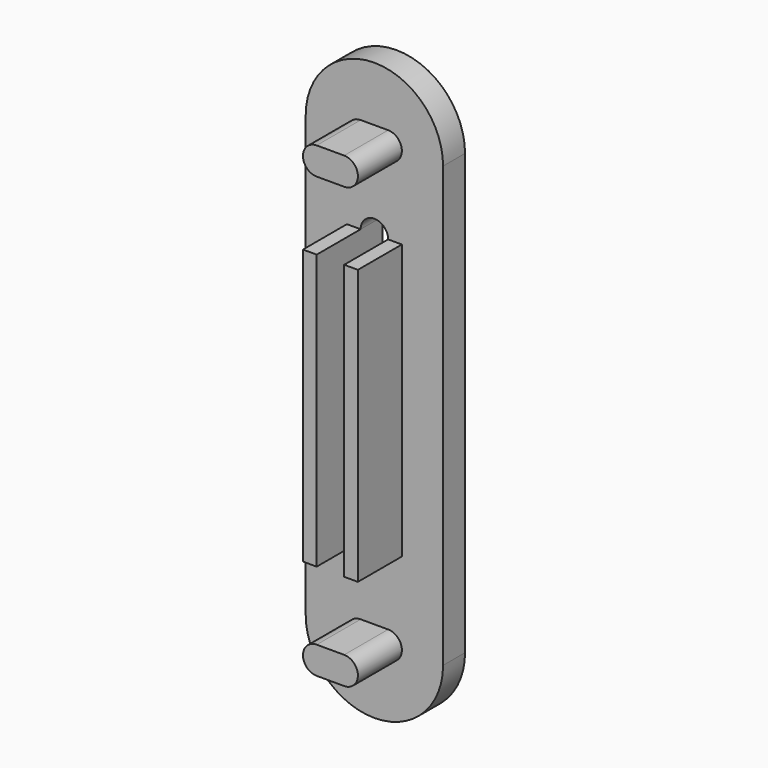
from build123d import *

# Parameters (mm, degrees)
F1_DEPTH = 25.4
F3_DEPTH = 12.7
F4_W     = 6.35
F4_H     = 127
F5_DEPTH = 25.4


with BuildPart() as f1:
    # F0 (on Front) → F1 (new body)
    with BuildSketch(Plane.XZ):
        with BuildLine():
            Line((10.7133227866, 30.7250145495), (-1.9866772134, 30.7250145495))
            ThreePointArc((-1.9866772134, 30.7250145495), (-8.3366772134, 24.3750145495), (-1.9866772134, 18.0250145495))
            Line((-1.9866772134, 18.0250145495), (10.7133227866, 18.0250145495))
            ThreePointArc((10.7133227866, 18.0250145495), (17.0633227866, 24.3750145495), (10.7133227866, 30.7250145495))
        make_face()
    extrude(amount=F1_DEPTH)



with BuildPart() as f1b:
    # F0 (on Front) → F1, piece 2 (new body)
    with BuildSketch(Plane.XZ):
        with BuildLine():
            Line((10.7133227866, -172.4749854505), (-1.9866772134, -172.4749854505))
            ThreePointArc((-1.9866772134, -172.4749854505), (-8.3366772134, -178.8249854505), (-1.9866772134, -185.1749854505))
            Line((-1.9866772134, -185.1749854505), (10.7133227866, -185.1749854505))
            ThreePointArc((10.7133227866, -185.1749854505), (17.0633227866, -178.8249854505), (10.7133227866, -172.4749854505))
        make_face()
    extrude(amount=F1_DEPTH)


with BuildPart() as f1_1:
    add(f1.part)

    add(f1b.part)  # F3 merges F1b
    # F2 (on face) → F3 (join)
    with BuildSketch(Plane(origin=(0, 0, 0), x_dir=(-1, 0, 0), z_dir=(0, 1, 0))):
        with BuildLine():
            ThreePointArc((27.3866772134, 24.3750145495), (-4.3633227866, 56.1250145495), (-36.1133227866, 24.3750145495))
            Line((-36.1133227866, 24.3750145495), (-36.1133227866, -178.8249854505))
            ThreePointArc((-36.1133227866, -178.8249854505), (-4.3633227866, -210.5749854505), (27.3866772134, -178.8249854505))
            Line((27.3866772134, -178.8249854505), (27.3866772134, 24.3750145495))
        make_face()
        with BuildLine():
            Line((-10.7133227866, -140.7249854505), (-10.7133227866, -13.7249854505))
            ThreePointArc((-10.7133227866, -13.7249854505), (-4.3633227866, -7.3749854505), (1.9866772134, -13.7249854505))
            Line((1.9866772134, -13.7249854505), (1.9866772134, -140.7249854505))
            ThreePointArc((1.9866772134, -140.7249854505), (-4.3633227866, -147.0749854505), (-10.7133227866, -140.7249854505))
        make_face(mode=Mode.SUBTRACT)
    extrude(amount=F3_DEPTH)

    # F4 (on face) → F5 (join)
    with BuildSketch(Plane.XZ):
        with Locations((13.8883227866, -77.2249854505)):
            Rectangle(F4_W, F4_H)
        with Locations((-5.1616772134, -77.2249854505)):
            Rectangle(F4_W, F4_H)
    extrude(amount=F5_DEPTH)


solid = f1_1.part
